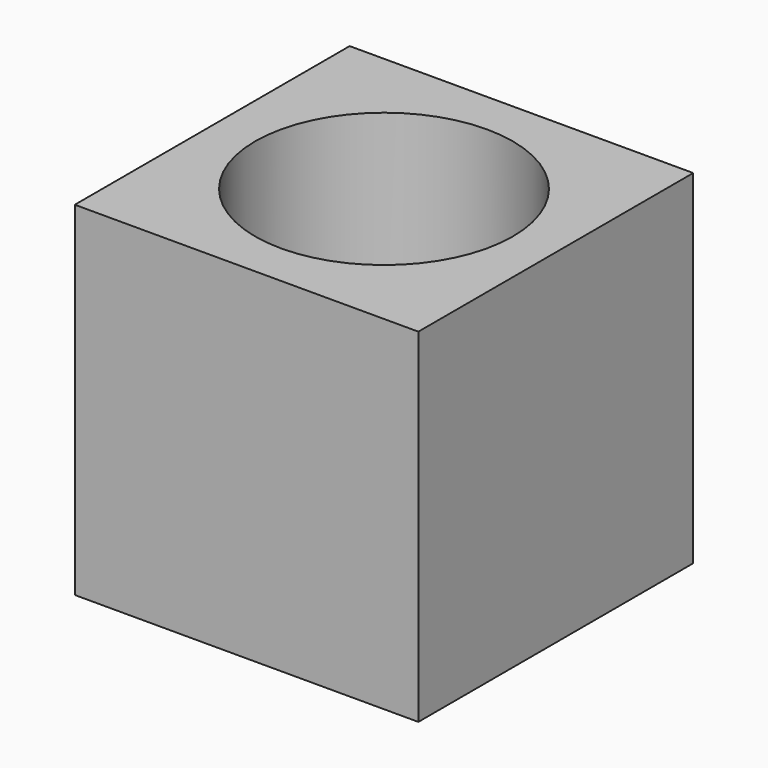
from build123d import *

# Parameters (mm, degrees)
F0_W     = 25.4
F0_H     = 25.4
F1_DEPTH = 25.4
F2_R     = 9.525
F3_DEPTH = 19.05
F4_R     = 6.35
F5_DEPTH = 6.351


with BuildPart() as f1:
    # F0 (on Top) → F1 (new body)
    with BuildSketch(Plane.XY):
        with Locations((-3.576601, -18.135061)):
            Rectangle(F0_W, F0_H)
    extrude(amount=F1_DEPTH)

    # F2 (on face) → F3 (cut)
    with BuildSketch(Plane.XY.offset(25.4)):
        with Locations((-3.576601, -18.135061)):
            Circle(F2_R)
    extrude(amount=-F3_DEPTH, mode=Mode.SUBTRACT)

    # F4 (on face) → F5 (cut, through all)
    with BuildSketch(Plane.XY.offset(6.35)):
        with Locations((-3.576601, -18.135061)):
            Circle(F4_R)
        with Locations((-3.576601, -18.135061)):
            Circle(F4_R)
    extrude(amount=-F5_DEPTH, mode=Mode.SUBTRACT)


solid = f1.part
